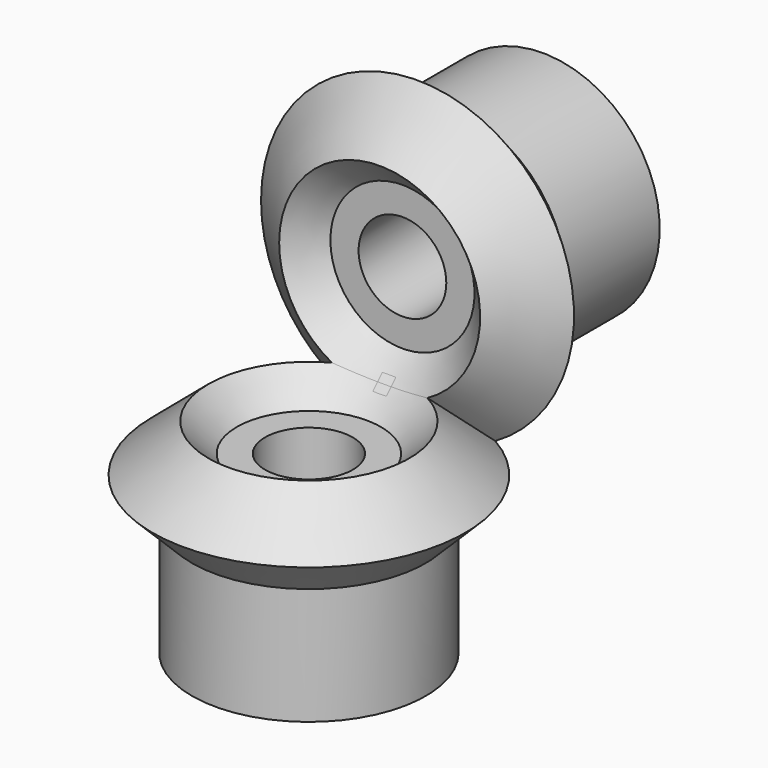
from build123d import *

# Parameters (mm, degrees)
F2_R     = 3
F3_DEPTH = 20.001
F5_COUNT = 2
F5_ANGLE = 90


with BuildPart() as f1:
    # F0 (on Front) → F1 (revolve)
    with BuildSketch(Plane.XZ):
        Polygon((-8, -20), (0, -20), (0, -8), (-4.93, -8), (-6.875, -6.05), (-10.7059183619, -9.29), (-8, -12), align=None)
    revolve(axis=Axis((0, 0, -3.6575268713), (0, 0, -1)))

    # F2 (on Top) → F3 (cut, through all)
    with BuildSketch(Plane.XY):
        Circle(F2_R)
    extrude(amount=-F3_DEPTH, mode=Mode.SUBTRACT)

    # F5: F1 ×2 about axis
    f5_axis = Axis((-1.142192632, 0, 0), (1, 0, 0))


with BuildPart() as f1_1:
    add(f1.part)
    for i in range(1, F5_COUNT):
        add(f1.part.rotate(f5_axis, i * F5_ANGLE / (F5_COUNT - 1)))


solid = f1_1.part
